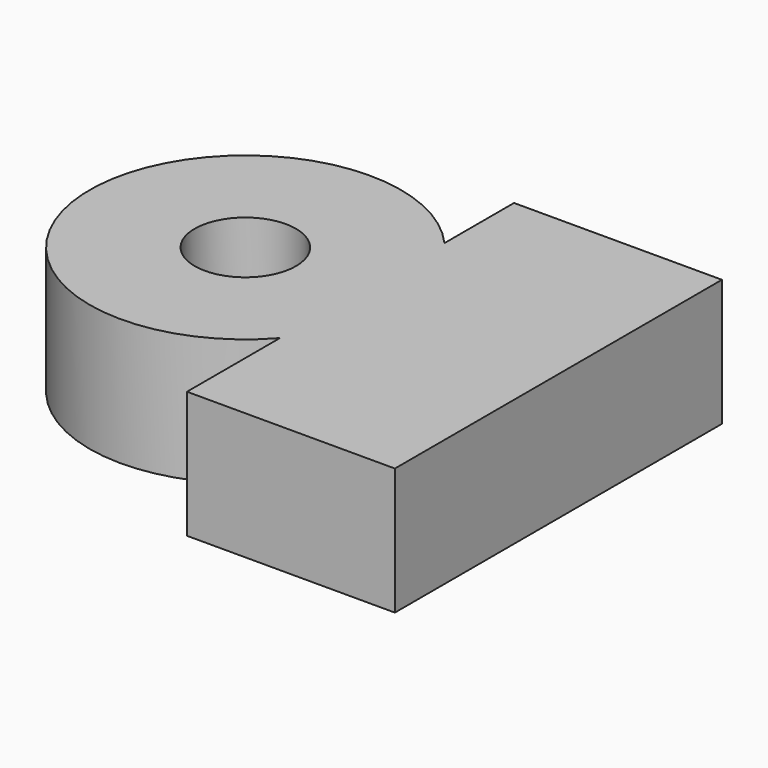
from build123d import *

# Parameters (mm, degrees)
F1_DEPTH = 25.4
F2_R     = 10.139347
F3_DEPTH = 12.7


with BuildPart() as f1:
    # F0 (on Top) → F1 (new body)
    with BuildSketch(Plane.XY):
        with BuildLine():
            Line((-66.961698, 31.158397), (-66.961698, 13.752916))
            ThreePointArc((-66.961698, 13.752916), (-121.523907, -6.835826), (-66.961698, -27.424569))
            Line((-66.961698, -27.424569), (-66.961698, -50.692085))
            Line((-66.961698, -50.692085), (-25.330512, -50.692085))
            Line((-25.330512, -50.692085), (-25.330512, 31.158397))
            Line((-25.330512, 31.158397), (-66.961698, 31.158397))
        make_face()
    extrude(amount=F1_DEPTH)

    # F2 (on face) → F3 (cut)
    with BuildSketch(Plane.XY.offset(25.4)):
        with Locations((-90.35828, -6.835826)):
            Circle(F2_R)
    extrude(amount=-F3_DEPTH, mode=Mode.SUBTRACT)


solid = f1.part
